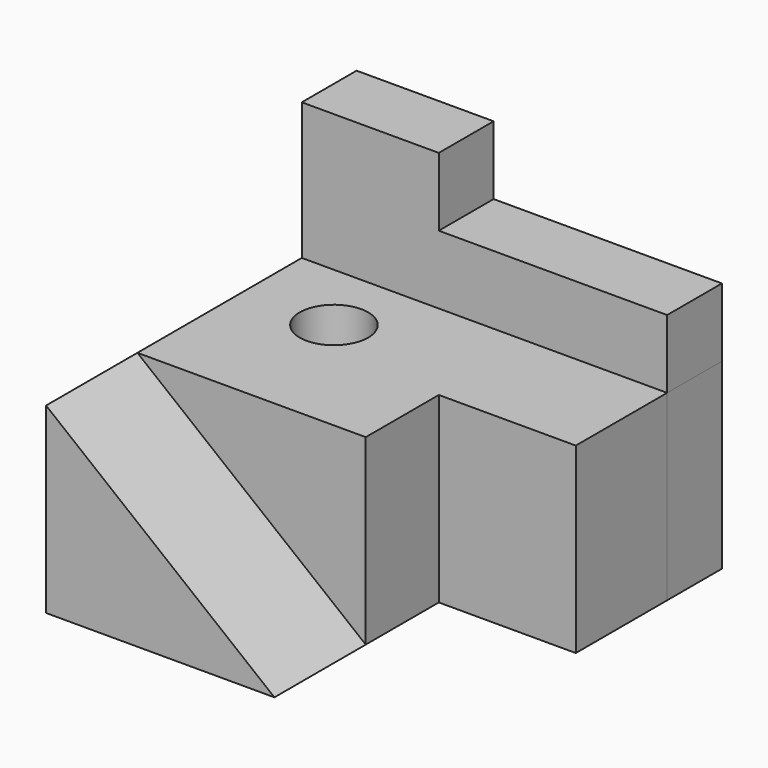
from build123d import *

# Parameters (mm, degrees)
F1_DEPTH = 25
F3_DEPTH = 40
F5_DEPTH = 15
F6_DEPTH = 40
F7_R     = 7.5
F8_DEPTH = 40


with BuildPart() as f1:
    # F0 (on Front) → F1 (new body)
    with BuildSketch(Plane.XZ):
        Polygon((0, 40), (0, 0), (50, 0), align=None)
    extrude(amount=-F1_DEPTH)

    # F2 (on Top) → F3 (join)
    with BuildSketch(Plane.XY):
        Polygon((0, 70), (0, 25), (50, 25), (50, 45), (80, 45), (80, 70), align=None)
    extrude(amount=F3_DEPTH)

    # F7 (on face) → F8 (cut, through all)
    with BuildSketch(Plane.XY.offset(40)):
        with Locations((19.8061428964, 54.0399923921)):
            Circle(F7_R)
    extrude(amount=-F8_DEPTH, mode=Mode.SUBTRACT)


with BuildPart() as f5:
    # F4 (on face) → F5 (new body)
    with BuildSketch(Plane(origin=(0, 70, 0), x_dir=(-1, 0, 0), z_dir=(0, 1, 0))):
        Polygon((-80, 40), (0, 40), (0, 70), (-30, 70), (-30, 55), (-80, 55), align=None)
    extrude(amount=F5_DEPTH)


with BuildPart() as f6:
    # F6 (new): a face of the model
    f6_faces = [f5.part.faces().sort_by_distance(p)[0] for p in [
        (40, 77.5, 40),
    ]]
    extrude(f6_faces, amount=F6_DEPTH)


solid = Compound([f1.part, f5.part, f6.part])
